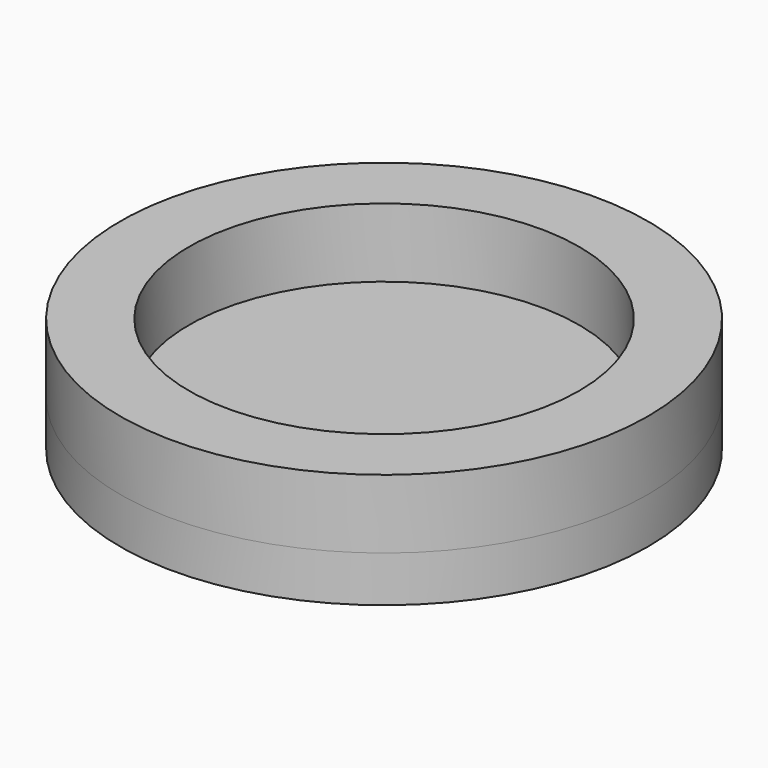
from build123d import *

# Parameters (mm, degrees)
F0_R     = 11.5
F1_DEPTH = 2
F2_R     = 11.5
F3_DEPTH = 3
F4_R     = 8.5
F5_DEPTH = 3


with BuildPart() as f1:
    # F0 (on Top) → F1 (new body)
    with BuildSketch(Plane.XY):
        Circle(F0_R)
    extrude(amount=-F1_DEPTH)

    # F2 (on face) → F3 (join)
    with BuildSketch(Plane.XY):
        Circle(F2_R)
    extrude(amount=F3_DEPTH)

    # F4 (on face) → F5 (cut)
    with BuildSketch(Plane.XY.offset(3)):
        Circle(F4_R)
    extrude(amount=-F5_DEPTH, mode=Mode.SUBTRACT)


solid = f1.part
